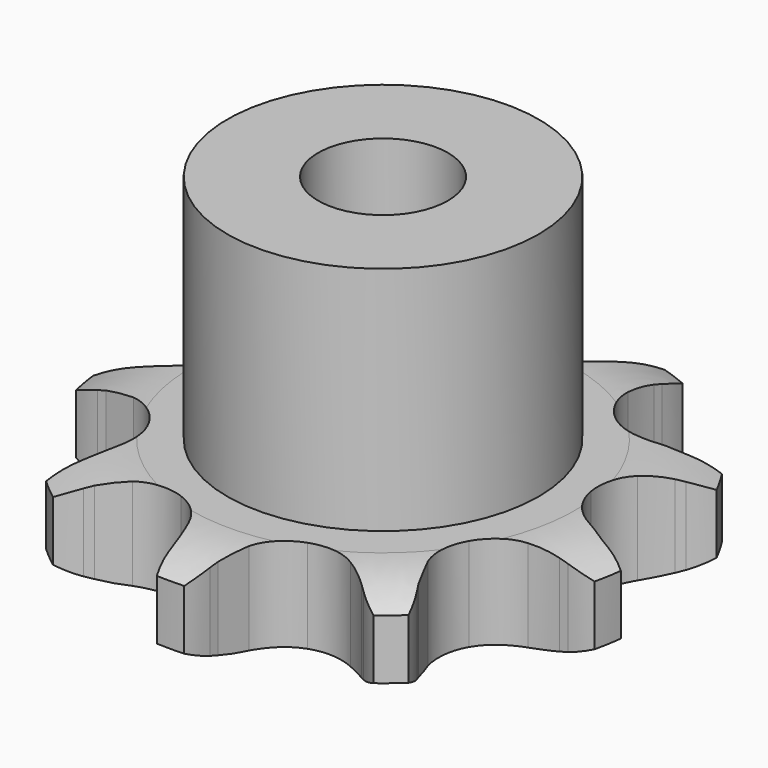
from build123d import *

# Parameters (mm, degrees)
PAD_DEPTH         = 7.2
SKETCH001_R       = 12
PAD001_DEPTH      = 25
SKETCH002_R       = 5
POCKET_DEPTH      = 0.0010001
POCKET_DEPTH_BACK = 25.001


with BuildPart() as part:
    # Sprocket → Pad (new body)
    with BuildSketch(Plane.XY):
        with BuildLine():
            ThreePointArc((-7.5723533962, 20.8048699683), (-6.0500066288, 19.6402990969), (-4.8844074019, 18.1187395559))
            Line((-4.8844074019, 18.1187395559), (-4.5572790557, 17.5495905438))
            ThreePointArc((-4.5572790557, 17.5495905438), (-3.9377319844, 16.5894688494), (-3.2229462917, 15.6979792783))
            ThreePointArc((-3.2229462917, 15.6979792783), (-1.766271967, 14.6299014734), (0, 14.251782941))
            ThreePointArc((0, 14.251782941), (1.766271967, 14.6299014734), (3.2229462917, 15.6979792783))
            ThreePointArc((3.2229462917, 15.6979792783), (3.9377319844, 16.5894688494), (4.5572790557, 17.5495905438))
            Line((4.5572790557, 17.5495905438), (4.8844074019, 18.1187395559))
            ThreePointArc((4.8844074019, 18.1187395559), (6.0500066288, 19.6402990969), (7.5723533962, 20.8048699683))
            ThreePointArc((7.5723533962, 20.8048699683), (7.9899669512, 18.9342112839), (7.9048281415, 17.0193963117))
            Line((7.9048281415, 17.0193963117), (7.7895810602, 16.373128826))
            ThreePointArc((7.7895810602, 16.373128826), (7.6470273225, 15.2393957562), (7.62154648, 14.0970197374))
            ThreePointArc((7.62154648, 14.0970197374), (8.0508765727, 12.3424924628), (9.1608694904, 10.9174991265))
            ThreePointArc((9.1608694904, 10.9174991265), (10.7569622234, 10.0718169913), (12.5593866745, 9.9536798513))
            Line((12.5593866745, 9.9536798513), (14.771737653, 10.5144038042))
            ThreePointArc((14.771737653, 10.5144038042), (15.0782903863, 10.6318123933), (15.3881744378, 10.7401231945))
            ThreePointArc((15.3881744378, 10.7401231945), (17.2591148689, 11.1564726849), (19.1738718772, 11.0700400897))
            ThreePointArc((19.1738718772, 11.0700400897), (18.2913461962, 9.3685955808), (16.9953067451, 7.9564883837))
            Line((16.9953067451, 7.9564883837), (16.4916096266, 7.5354981634))
            ThreePointArc((16.4916096266, 7.5354981634), (15.653657558, 6.7586400217), (14.8998329496, 5.8999079904))
            ThreePointArc((14.8998329496, 5.8999079904), (14.1009304884, 4.2798940573), (14.0352663346, 2.4747961362))
            ThreePointArc((14.0352663346, 2.4747961362), (14.7143503051, 0.8010174033), (16.0191504502, -0.4480570009))
            Line((16.0191504502, -0.4480570009), (18.0743360329, -1.44058933))
            ThreePointArc((18.0743360329, -1.44058933), (18.384637837, -1.5476974314), (18.6916436338, -1.6639161727))
            ThreePointArc((18.6916436338, -1.6639161727), (20.3924914481, -2.5475912868), (21.8037226131, -3.8445845766))
            ThreePointArc((21.8037226131, -3.8445845766), (20.0340012703, -4.5806901149), (18.1334924409, -4.8293488855))
            Line((18.1334924409, -4.8293488855), (17.4770307648, -4.8280758375))
            ThreePointArc((17.4770307648, -4.8280758375), (16.335767451, -4.8845584929), (15.206321989, -5.0578362755))
            ThreePointArc((15.206321989, -5.0578362755), (13.5530023143, -5.7853143433), (12.3424060762, -7.1258914705))
            ThreePointArc((12.3424060762, -7.1258914705), (11.7867303473, -8.8445871301), (11.9833756972, -10.6401430028))
            Line((11.9833756972, -10.6401430028), (12.9197517091, -12.7215147063))
            ThreePointArc((12.9197517091, -12.7215147063), (13.0886089214, -13.0030224272), (13.249085039, -13.2893906704))
            ThreePointArc((13.249085039, -13.2893906704), (13.9839946415, -15.0596089821), (14.2313692168, -16.9602853917))
            ThreePointArc((14.2313692168, -16.9602853917), (12.4025244969, -16.3866199971), (10.7868154922, -15.355480139))
            Line((10.7868154922, -15.355480139), (10.2847549726, -14.932539496))
            ThreePointArc((10.2847549726, -14.932539496), (9.3741902019, -14.2422178028), (8.3976039702, -13.6489627365))
            ThreePointArc((8.3976039702, -13.6489627365), (6.6634737324, -13.143509866), (4.8743968441, -13.3922952627))
            ThreePointArc((4.8743968441, -13.3922952627), (3.3439682651, -14.3517110486), (2.3404462752, -15.8535878417))
            Line((2.3404462752, -15.8535878417), (1.7198719736, -18.0499019676))
            ThreePointArc((1.7198719736, -18.0499019676), (1.6682744277, -18.3740887168), (1.6071323073, -18.6966115783))
            ThreePointArc((1.6071323073, -18.6966115783), (1.0322313273, -20.5250682657), (0, -22.1400801795))
            ThreePointArc((0, -22.1400801795), (-1.0322313273, -20.5250682657), (-1.6071323073, -18.6966115783))
            Line((-1.6071323073, -18.6966115783), (-1.7198719736, -18.0499019676))
            ThreePointArc((-1.7198719736, -18.0499019676), (-1.9736748252, -16.9357851182), (-2.3404462752, -15.8535878417))
            ThreePointArc((-2.3404462752, -15.8535878417), (-3.3439682651, -14.3517110486), (-4.8743968441, -13.3922952627))
            ThreePointArc((-4.8743968441, -13.3922952627), (-6.6634737324, -13.143509866), (-8.3976039702, -13.6489627365))
            Line((-8.3976039702, -13.6489627365), (-10.2847549726, -14.932539496))
            ThreePointArc((-10.2847549726, -14.932539496), (-10.5326642115, -15.1477146905), (-10.7868154922, -15.355480139))
            ThreePointArc((-10.7868154922, -15.355480139), (-12.4025244969, -16.3866199971), (-14.2313692168, -16.9602853917))
            ThreePointArc((-14.2313692168, -16.9602853917), (-13.9839946415, -15.0596089821), (-13.249085039, -13.2893906704))
            Line((-13.249085039, -13.2893906704), (-12.9197517091, -12.7215147063))
            ThreePointArc((-12.9197517091, -12.7215147063), (-12.3980354666, -11.7049103565), (-11.9833756972, -10.6401430028))
            ThreePointArc((-11.9833756972, -10.6401430028), (-11.7867303473, -8.8445871301), (-12.3424060762, -7.1258914705))
            ThreePointArc((-12.3424060762, -7.1258914705), (-13.5530023143, -5.7853143433), (-15.206321989, -5.0578362755))
            Line((-15.206321989, -5.0578362755), (-17.4770307648, -4.8280758375))
            ThreePointArc((-17.4770307648, -4.8280758375), (-17.8052522086, -4.8335566125), (-18.1334924409, -4.8293488855))
            ThreePointArc((-18.1334924409, -4.8293488855), (-20.0340012703, -4.5806901149), (-21.8037226131, -3.8445845766))
            ThreePointArc((-21.8037226131, -3.8445845766), (-20.3924914481, -2.5475912868), (-18.6916436338, -1.6639161727))
            Line((-18.6916436338, -1.6639161727), (-18.0743360329, -1.44058933))
            ThreePointArc((-18.0743360329, -1.44058933), (-17.0212175244, -0.9971779534), (-16.0191504502, -0.4480570009))
            ThreePointArc((-16.0191504502, -0.4480570009), (-14.7143503051, 0.8010174033), (-14.0352663346, 2.4747961362))
            ThreePointArc((-14.0352663346, 2.4747961362), (-14.1009304884, 4.2798940573), (-14.8998329496, 5.8999079904))
            Line((-14.8998329496, 5.8999079904), (-16.4916096266, 7.5354981634))
            ThreePointArc((-16.4916096266, 7.5354981634), (-16.746564814, 7.7422763235), (-16.9953067451, 7.9564883837))
            ThreePointArc((-16.9953067451, 7.9564883837), (-18.2913461962, 9.3685955808), (-19.1738718772, 11.0700400897))
            ThreePointArc((-19.1738718772, 11.0700400897), (-17.2591148689, 11.1564726849), (-15.3881744378, 10.7401231945))
            Line((-15.3881744378, 10.7401231945), (-14.771737653, 10.5144038042))
            ThreePointArc((-14.771737653, 10.5144038042), (-13.6799827328, 10.1771450965), (-12.5593866745, 9.9536798513))
            ThreePointArc((-12.5593866745, 9.9536798513), (-10.7569622234, 10.0718169913), (-9.1608694904, 10.9174991265))
            ThreePointArc((-9.1608694904, 10.9174991265), (-8.0508765727, 12.3424924628), (-7.62154648, 14.0970197374))
            Line((-7.62154648, 14.0970197374), (-7.7895810602, 16.373128826))
            ThreePointArc((-7.7895810602, 16.373128826), (-7.8519736255, 16.695412122), (-7.9048281415, 17.0193963117))
            ThreePointArc((-7.9048281415, 17.0193963117), (-7.9899669512, 18.9342112839), (-7.5723533962, 20.8048699683))
        make_face()
    extrude(amount=PAD_DEPTH)

    # Sketch → Groove (revolve, cut)
    with BuildSketch(Plane.XZ):
        with BuildLine():
            Line((14.8334313734, 0), (20.5, 0))
            Line((26.1665686266, 0), (20.5, 0))
            Line((26.1665686266, 7.2), (26.1665686266, 0))
            Line((20.5, 7.2), (26.1665686266, 7.2))
            Line((14.8334313734, 7.2), (20.5, 7.2))
            ThreePointArc((20.5, 5.9), (17.7403197441, 6.8708326483), (14.8334313734, 7.2))
            Line((20.5, 1.3), (20.5, 5.9))
            ThreePointArc((14.8334313734, 0), (17.7403197441, 0.3291673517), (20.5, 1.3))
        make_face()
    revolve(axis=Axis((0, 0, 0), (0, 0, 1)), mode=Mode.SUBTRACT)

    # Sketch001 → Pad001 (join)
    with BuildSketch(Plane.XY):
        Circle(SKETCH001_R)
    extrude(amount=PAD001_DEPTH)

    # Sketch002 → Pocket (cut, two sides)
    with BuildSketch(Plane.XY) as pocket_sk:
        Circle(SKETCH002_R)
    extrude(amount=-POCKET_DEPTH, mode=Mode.SUBTRACT)
    extrude(pocket_sk.sketch, amount=POCKET_DEPTH_BACK, mode=Mode.SUBTRACT)


solid = part.part
